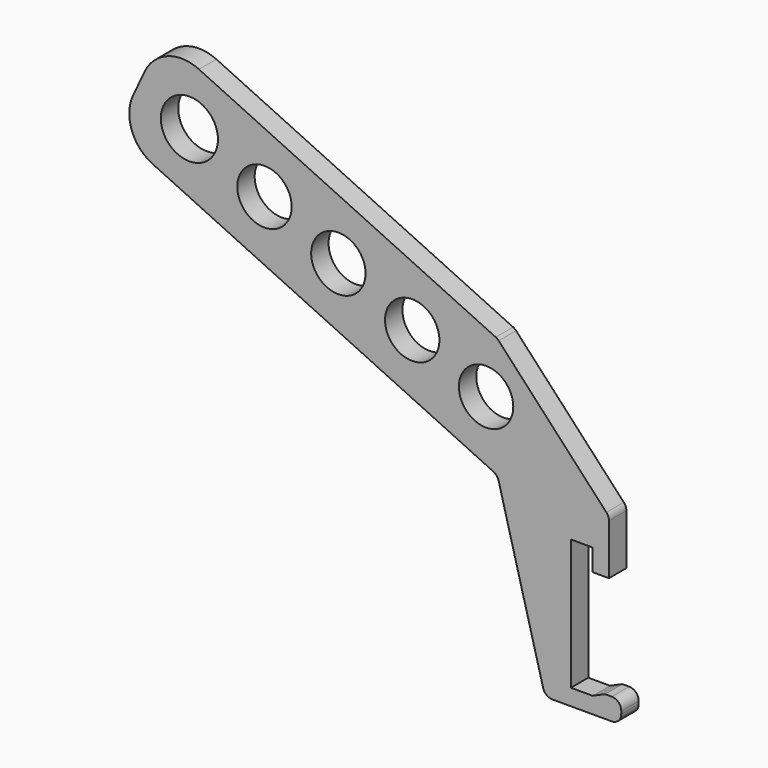
from build123d import *

# Parameters (mm, degrees)
F0_R     = 10
F0_R_2   = 10.5
F1_DEPTH = 8
F2_R     = 15
F3_R     = 3.5


with BuildPart() as f1:
    # F0 (on Front) → F1 (new body)
    with BuildSketch(Plane.XZ):
        Polygon((-140.306121, 65.872547), (0, 0), (17.5, -66), (45.5, -66), (45.56593, -58.000272), (39.56593, -58.000272), (35, -60), (27, -60), (27, -12), (35, -12), (35, -20), (41, -20), (41, 0), (0, 44.189091), (-123.306754, 102.080578), align=None)
        with Locations((-58.485174, 49.552844)):
            Circle(F0_R, mode=Mode.SUBTRACT)
        with Locations((-113.249821, 75.264387)):
            Circle(F0_R_2, mode=Mode.SUBTRACT)
        with Locations((-85.641198, 62.30237)):
            Circle(F0_R, mode=Mode.SUBTRACT)
        with Locations((-31.329151, 36.803319)):
            Circle(F0_R, mode=Mode.SUBTRACT)
        with Locations((-4.173127, 24.053794)):
            Circle(F0_R, mode=Mode.SUBTRACT)
    extrude(amount=F1_DEPTH)

    # F2
    f2_edges = [f1.edges().sort_by_distance(p)[0] for p in [
        (-123.306754, -4, 102.080578),
        (-140.306121, -4, 65.872547),
    ]]
    fillet(f2_edges, radius=F2_R)

    # F3
    f3_edges = [f1.edges().sort_by_distance(p)[0] for p in [
        (0, -4, 0),
        (41, -4, 0),
        (0, -4, 44.189091),
        (45.56593, -4, -58.000272),
        (45.5, -4, -66),
        (17.5, -4, -66),
    ]]
    fillet(f3_edges, radius=F3_R)


solid = f1.part
